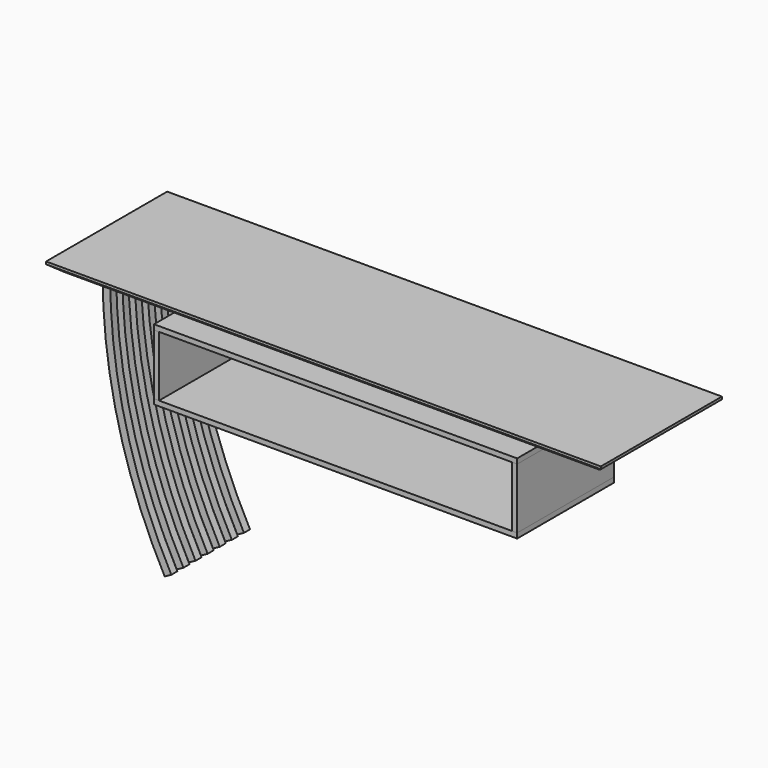
from build123d import *

# Parameters (mm, degrees)
F1_DEPTH = 190.5
F0_W     = 12.7
F0_H     = 152.4
F2_DEPTH = 152.4
F3_DEPTH = 152.4
F4_SIZE2 = 19.05
F4_SIZE  = 25.4
F5_W     = 19.05
F5_H     = 19.05


with BuildPart() as f1:
    # F0 (on Front) → F1 (new body, symmetric)
    with BuildSketch(Plane.XZ):
        Polygon((-609.6, -12.7), (698.5, -12.7), (698.5, 12.7), (-698.5, 12.7), (-698.5, -12.7), align=None)
    extrude(amount=F1_DEPTH, both=True)

    # F4
    f4_edges = [f1.edges().sort_by_distance(p)[0] for p in [
        (-698.5, 0, -12.7),
        (0, -190.5, -12.7),
        (0, 190.5, -12.7),
        (698.5, 0, -12.7),
    ]]
    f4_side = f1.faces().sort_by_distance((0, 0, -12.7))[0]
    chamfer(f4_edges, length=F4_SIZE, length2=F4_SIZE2, reference=f4_side)


with BuildPart() as f2:
    # F0 (on Front) → F2 (new body, symmetric)
    with BuildSketch(Plane.XZ):
        with Locations((-450.85, -152.4)):
            Rectangle(F0_W, F0_H)
    extrude(amount=F2_DEPTH, both=True)


with BuildPart() as f2b:
    # F0 (on Front) → F2, piece 2 (new body, symmetric)
    with BuildSketch(Plane.XZ):
        with Locations((450.85, -152.4)):
            Rectangle(F0_W, F0_H)
    extrude(amount=F2_DEPTH, both=True)


with BuildPart() as f3:
    # F0 (on Front) → F3 (new body, symmetric)
    with BuildSketch(Plane.XZ):
        Polygon((457.2, -76.2), (457.2, -63.5), (-457.2, -63.5), (-457.2, -76.2), (-444.5, -76.2), (444.5, -76.2), align=None)
    extrude(amount=F3_DEPTH, both=True)


with BuildPart() as f3b:
    # F0 (on Front) → F3, piece 2 (new body, symmetric)
    with BuildSketch(Plane.XZ):
        Polygon((457.2, -241.3), (457.2, -228.6), (444.5, -228.6), (-444.5, -228.6), (-457.2, -228.6), (-457.2, -241.3), align=None)
    extrude(amount=F3_DEPTH, both=True)


with BuildPart() as f6:
    # F6: sweep along a path in F0
    with BuildLine(Plane.XZ) as f6_path:
        ThreePointArc((-609.6, -12.7), (-569.9168119081, -332.4567845547), (-453.2749464586, -632.8129596375))
    # F5 (on face) → F6 (sweep)
    with BuildSketch(Plane(origin=(0, 0, -12.7), x_dir=(1, 0, 0), z_dir=(0, 0, -1))):
        with Locations((-600.075, 0)):
            Rectangle(F5_W, F5_H)
        with Locations((-600.075, 38.1)):
            Rectangle(F5_W, F5_H)
        with Locations((-600.075, 76.2)):
            Rectangle(F5_W, F5_H)
        with Locations((-600.075, 114.3)):
            Rectangle(F5_W, F5_H)
        with Locations((-600.075, -114.3)):
            Rectangle(F5_W, F5_H)
        with Locations((-600.075, -76.2)):
            Rectangle(F5_W, F5_H)
        with Locations((-600.075, -38.1)):
            Rectangle(F5_W, F5_H)
    sweep(path=f6_path.line)


solid = Compound([f1.part, f2.part, f2b.part, f3.part, f3b.part, f6.part])
